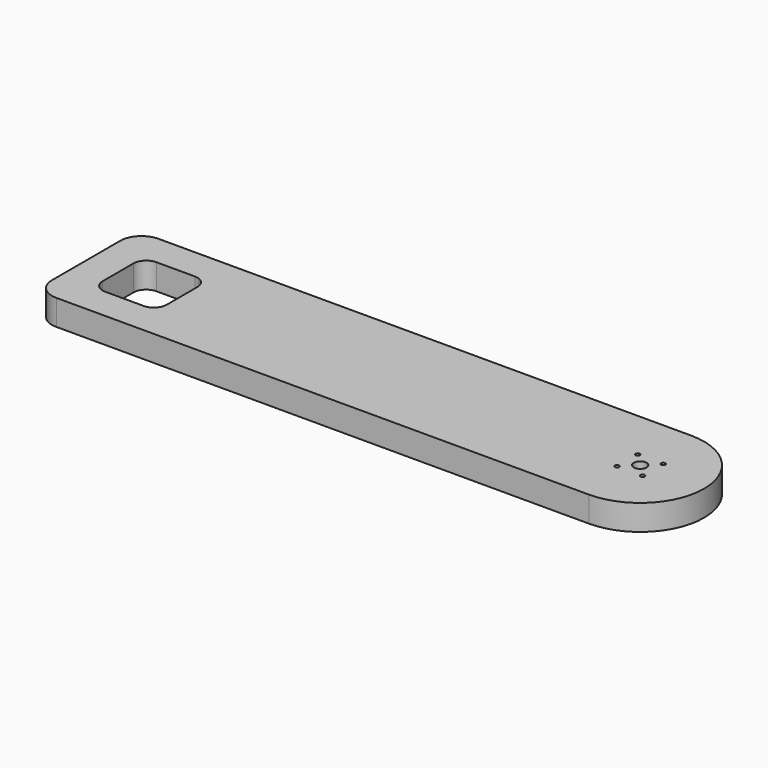
from build123d import *

# Parameters (mm, degrees)
F1_DEPTH       = 6
F2_D           = 3
F3_D           = 1
F3_CBORE_D     = 1.5
F3_CBORE_DEPTH = 1


with BuildPart() as f1:
    # F0 (on Top) → F1 (new body)
    with BuildSketch(Plane.XY):
        with BuildLine():
            Line((52.7166165411, 30), (52.7166165411, 0))
            ThreePointArc((52.7166165411, 0), (67.7166165411, 15), (52.7166165411, 30))
        make_face()
        with BuildLine():
            Line((34.7231468186, 0), (52.7166165411, 0))
            ThreePointArc((52.7166165411, 0), (37.7166165411, 15), (52.7166165411, 30))
            Line((52.7166165411, 30), (35.3341475129, 30))
            Line((35.3341475129, 30), (-47.2833834589, 30))
            Line((-47.2833834589, 30), (-72.2833834589, 30))
            ThreePointArc((-72.2833834589, 30), (-75.8189173648, 28.5355339059), (-77.2833834589, 25))
            Line((-77.2833834589, 25), (-77.2833834589, 5))
            ThreePointArc((-77.2833834589, 5), (-75.8189173648, 1.4644660941), (-72.2833834589, 0))
            Line((-72.2833834589, 0), (16.729677096, 0))
            Line((16.729677096, 0), (34.7231468186, 0))
        make_face()
        with BuildLine():
            ThreePointArc((-69.7833834589, 19.5), (-68.9047038024, 21.6213203436), (-66.7833834589, 22.5))
            Line((-66.7833834589, 22.5), (-57.7833834589, 22.5))
            ThreePointArc((-57.7833834589, 22.5), (-55.6620631153, 21.6213203436), (-54.7833834589, 19.5))
            Line((-54.7833834589, 19.5), (-54.7833834589, 10.5))
            ThreePointArc((-54.7833834589, 10.5), (-55.6620631153, 8.3786796564), (-57.7833834589, 7.5))
            Line((-57.7833834589, 7.5), (-66.7833834589, 7.5))
            ThreePointArc((-66.7833834589, 7.5), (-68.9047038024, 8.3786796564), (-69.7833834589, 10.5))
            Line((-69.7833834589, 10.5), (-69.7833834589, 19.5))
        make_face(mode=Mode.SUBTRACT)
        with BuildLine():
            ThreePointArc((52.7166165411, 30), (37.7166165411, 15), (52.7166165411, 0))
            Line((52.7166165411, 0), (52.7166165411, 30))
        make_face()
    extrude(amount=F1_DEPTH)

    # F2 (through all)
    with Locations(Plane(origin=(0, 0, 0), x_dir=(1, 0, 0), z_dir=(0, 0, -1))):
        with Locations((52.7166165411, -15)):
            Hole(F2_D / 2)

    # F3 (through all)
    with Locations(Plane(origin=(0, 0, 0), x_dir=(1, 0, 0), z_dir=(0, 0, -1))):
        with Locations((55.7166165411, -18), (55.7166165411, -12), (49.7166165411, -12), (49.7166165411, -18)):
            CounterBoreHole(F3_D / 2, F3_CBORE_D / 2, F3_CBORE_DEPTH)


solid = f1.part
